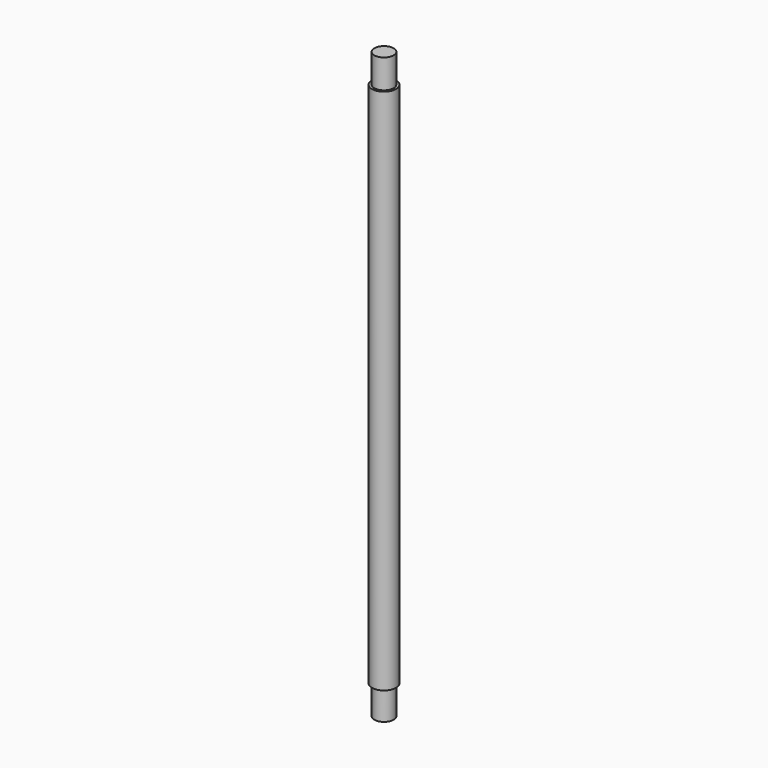
from build123d import *

# Parameters (mm, degrees)
F0_W   = 1.27
F0_H   = 3.811506
F0_H_2 = 3.812191


with BuildPart() as f1:
    # F0 (on Front) → F1 (revolve)
    with BuildSketch(Plane.XZ):
        with Locations((-0.635, -1.905753)):
            Rectangle(F0_W, F0_H)
        Polygon((-1.27, 0), (0, 0), (0, 69.469), (-1.27, 69.469), (-1.5875, 69.469), (-1.5875, 0), align=None)
        with Locations((-0.635, 71.375095)):
            Rectangle(F0_W, F0_H_2)
    revolve(axis=Axis((0, 0, 34.7345), (0, 0, 1)))


solid = f1.part
